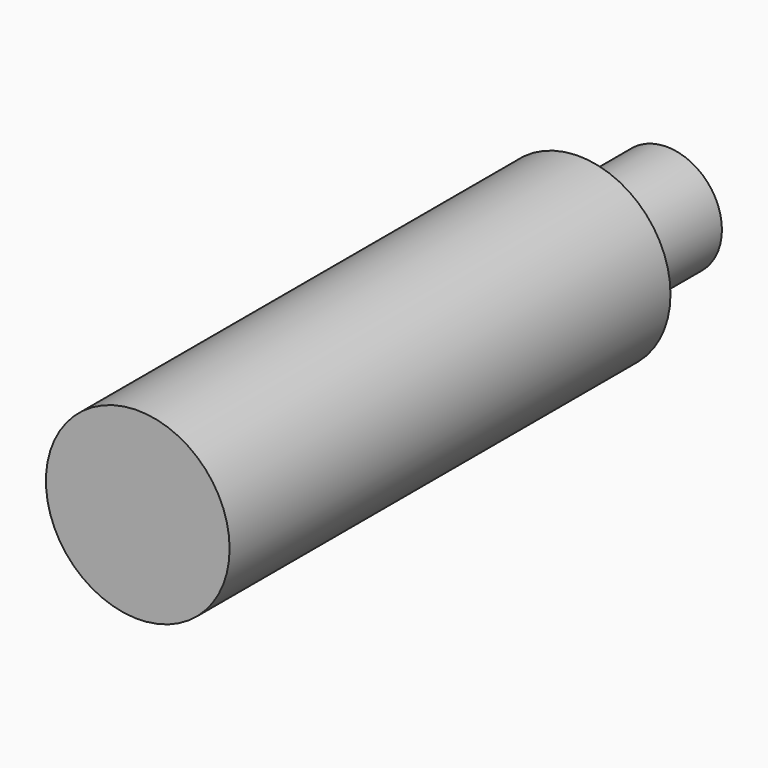
from build123d import *

# Parameters (mm, degrees)
F0_R     = 10
F2_DEPTH = 60
F3_R     = 6
F1_DEPTH = 12


with BuildPart() as f2:
    # F0 (on Front) → F2 (new body)
    with BuildSketch(Plane.XZ):
        Circle(F0_R)
    extrude(amount=F2_DEPTH)

    # F3 (on Front) → F1 (join)
    with BuildSketch(Plane.XZ):
        Circle(F3_R)
    extrude(amount=-F1_DEPTH)


solid = f2.part
